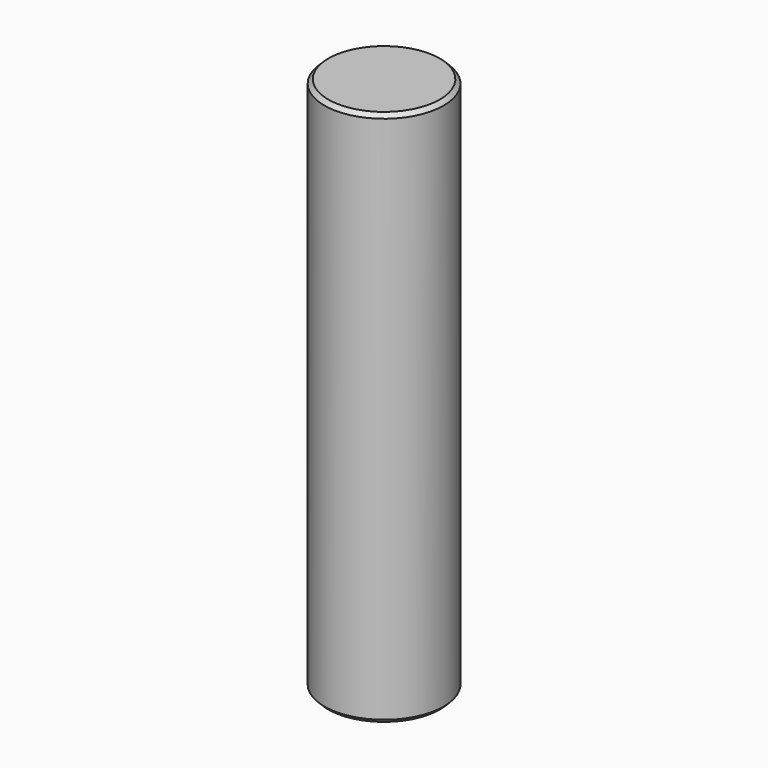
from build123d import *

# Parameters (mm, degrees)
SKETCH_R     = 1.5
PAD_DEPTH    = 13.5
CHAMFER_SIZE = 0.1


with BuildPart() as part:
    # Sketch → Pad (new body)
    with BuildSketch(Plane.XY):
        Circle(SKETCH_R)
    extrude(amount=-PAD_DEPTH)

    # Chamfer
    chamfer_edges = [part.edges().sort_by_distance(p)[0] for p in [
        (-1.5, 0, 0),
        (-1.5, 0, -13.5),
    ]]
    chamfer(chamfer_edges, length=CHAMFER_SIZE)


solid = part.part
